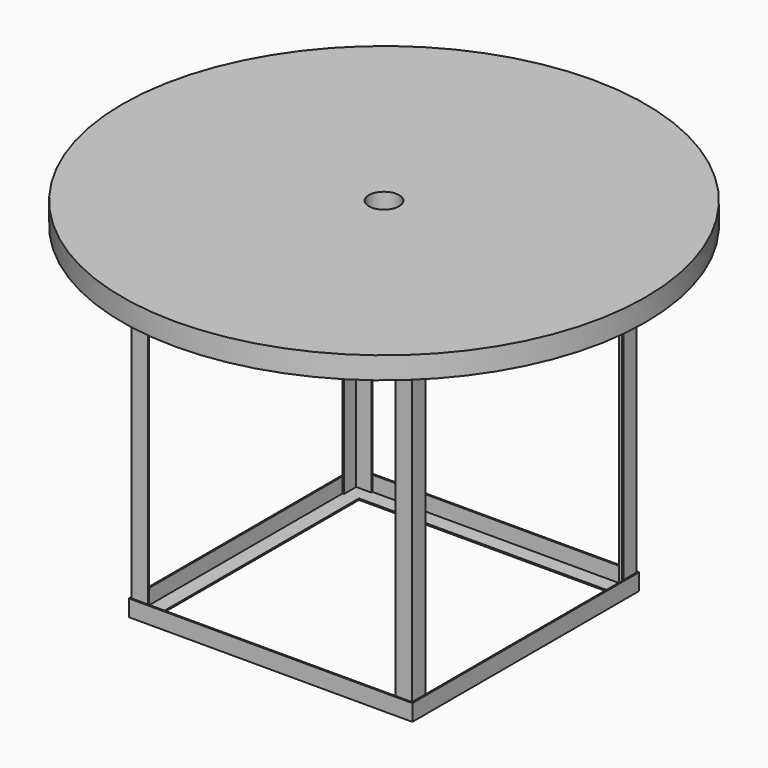
from build123d import *

# Parameters (mm, degrees)
F0_R      = 603.25
F0_R_2    = 34.925
F1_DEPTH  = 50.8
F2_W      = 654.05
F2_H      = 654.05
F2_W_2    = 577.85
F2_H_2    = 577.85
F3_DEPTH  = 3.175
F4_W      = 654.05
F4_H      = 654.05
F4_W_2    = 647.7
F4_H_2    = 647.7
F5_DEPTH  = 34.925
F7_DEPTH  = 762
F9_DEPTH  = 762
F11_DEPTH = 762
F13_DEPTH = 762
F14_W     = 3.175
F14_H     = 3.175
F15_DEPTH = 34.925
F16_W     = 577.85
F16_H     = 577.85
F17_DEPTH = 3.175


with BuildPart() as f1:
    # F0 (on Top) → F1 (new body)
    with BuildSketch(Plane.XY):
        Circle(F0_R)
        Circle(F0_R_2, mode=Mode.SUBTRACT)
    extrude(amount=F1_DEPTH)

    # F2 (on face) → F3 (join)
    with BuildSketch(Plane(origin=(0, 0, 0), x_dir=(1, 0, 0), z_dir=(0, 0, -1))):
        Rectangle(F2_W, F2_H)
        Rectangle(F2_W_2, F2_H_2, mode=Mode.SUBTRACT)
    extrude(amount=F3_DEPTH)

    # F4 (on face) → F5 (join)
    with BuildSketch(Plane(origin=(0, 0, -3.175), x_dir=(1, 0, 0), z_dir=(0, 0, -1))):
        Rectangle(F4_W, F4_H)
        Rectangle(F4_W_2, F4_H_2, mode=Mode.SUBTRACT)
    extrude(amount=F5_DEPTH)

    # F6 (on face) → F7 (join)
    with BuildSketch(Plane(origin=(0, 0, -3.175), x_dir=(1, 0, 0), z_dir=(0, 0, -1))):
        Polygon((-285.75, 323.85), (-323.85, 323.85), (-323.85, 285.75), (-320.675, 285.75), (-320.675, 320.675), (-285.75, 320.675), align=None)
    extrude(amount=F7_DEPTH)

    # F8 (on face) → F9 (join)
    with BuildSketch(Plane(origin=(0, 0, -3.175), x_dir=(1, 0, 0), z_dir=(0, 0, -1))):
        Polygon((323.85, 285.75), (323.85, 323.85), (285.75, 323.85), (285.75, 320.675), (320.675, 320.675), (320.675, 285.75), align=None)
    extrude(amount=F9_DEPTH)

    # F10 (on face) → F11 (join)
    with BuildSketch(Plane(origin=(0, 0, -3.175), x_dir=(1, 0, 0), z_dir=(0, 0, -1))):
        Polygon((285.75, -323.85), (323.85, -323.85), (323.85, -285.75), (320.675, -285.75), (320.675, -320.675), (285.75, -320.675), align=None)
    extrude(amount=F11_DEPTH)

    # F12 (on face) → F13 (join)
    with BuildSketch(Plane(origin=(0, 0, -3.175), x_dir=(1, 0, 0), z_dir=(0, 0, -1))):
        Polygon((-323.85, -285.75), (-323.85, -323.85), (-285.75, -323.85), (-285.75, -320.675), (-320.675, -320.675), (-320.675, -285.75), align=None)
    extrude(amount=F13_DEPTH)

    # F14 (on face) → F15 (join)
    with BuildSketch(Plane(origin=(0, 0, -765.175), x_dir=(1, 0, 0), z_dir=(0, 0, -1))):
        with Locations((-325.4375, -325.4375)):
            Rectangle(F14_W, F14_H)
        Polygon((323.85, -323.85), (-323.85, -323.85), (-323.85, -327.025), (327.025, -327.025), (327.025, 323.85), (323.85, 323.85), align=None)
        Polygon((-327.025, -323.85), (-323.85, -323.85), (-323.85, 323.85), (323.85, 323.85), (323.85, 327.025), (-327.025, 327.025), align=None)
        with Locations((325.4375, 325.4375)):
            Rectangle(F14_W, F14_H)
    extrude(amount=-F15_DEPTH)

    # F16 (on face) → F17 (join)
    with BuildSketch(Plane(origin=(0, 0, -765.175), x_dir=(1, 0, 0), z_dir=(0, 0, -1))):
        Polygon((-327.025, -288.925), (-327.025, -327.025), (288.925, -327.025), (327.025, -327.025), (327.025, -288.925), (327.025, 327.025), (288.925, 327.025), (-288.925, 327.025), (-327.025, 327.025), align=None)
        Rectangle(F16_W, F16_H, mode=Mode.SUBTRACT)
    extrude(amount=F17_DEPTH)


solid = f1.part
